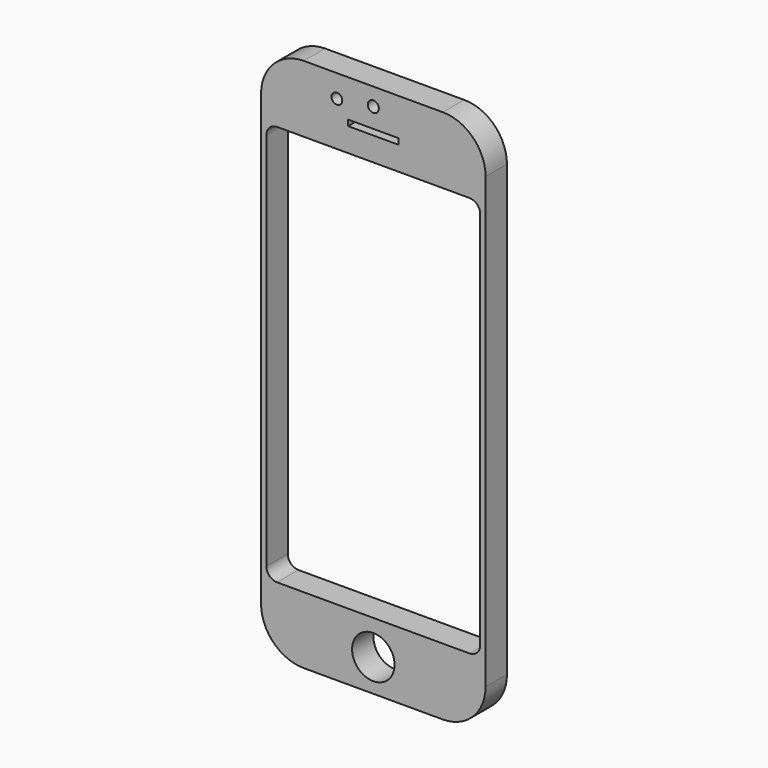
from build123d import *

# Parameters (mm, degrees)
F0_R     = 5.048131
F0_R_2   = 1.271307
F0_W     = 12.00706
F0_H     = 1.378923
F0_R_3   = 1.315191
F1_DEPTH = 6.35


with BuildPart() as f1:
    # F0 (on Front) → F1 (new body)
    with BuildSketch(Plane.XZ):
        with BuildLine():
            ThreePointArc((-26.67, -53.34), (-23.694205, -60.524205), (-16.51, -63.5))
            Line((-16.51, -63.5), (16.51, -63.5))
            ThreePointArc((16.51, -63.5), (23.694205, -60.524205), (26.67, -53.34))
            Line((26.67, -53.34), (26.67, 53.34))
            ThreePointArc((26.67, 53.34), (23.694205, 60.524205), (16.51, 63.5))
            Line((16.51, 63.5), (-16.51, 63.5))
            ThreePointArc((-16.51, 63.5), (-23.694205, 60.524205), (-26.67, 53.34))
            Line((-26.67, 53.34), (-26.67, -53.34))
        make_face()
        with Locations((0, -55.820804)):
            Circle(F0_R, mode=Mode.SUBTRACT)
        with BuildLine():
            Line((22.86, -47.625), (-22.86, -47.625))
            ThreePointArc((-22.86, -47.625), (-24.656051, -46.881051), (-25.4, -45.085))
            Line((-25.4, -45.085), (-25.4, 45.085))
            ThreePointArc((-25.4, 45.085), (-24.656051, 46.881051), (-22.86, 47.625))
            Line((-22.86, 47.625), (22.86, 47.625))
            ThreePointArc((22.86, 47.625), (24.656051, 46.881051), (25.4, 45.085))
            Line((25.4, 45.085), (25.4, -45.085))
            ThreePointArc((25.4, -45.085), (24.656051, -46.881051), (22.86, -47.625))
        make_face(mode=Mode.SUBTRACT)
        with Locations((-8.645263, 58.146928)):
            Circle(F0_R_2, mode=Mode.SUBTRACT)
        with Locations((0, 53.960361)):
            Rectangle(F0_W, F0_H, mode=Mode.SUBTRACT)
        with Locations((0, 59.309863)):
            Circle(F0_R_3, mode=Mode.SUBTRACT)
    extrude(amount=F1_DEPTH)


solid = f1.part
